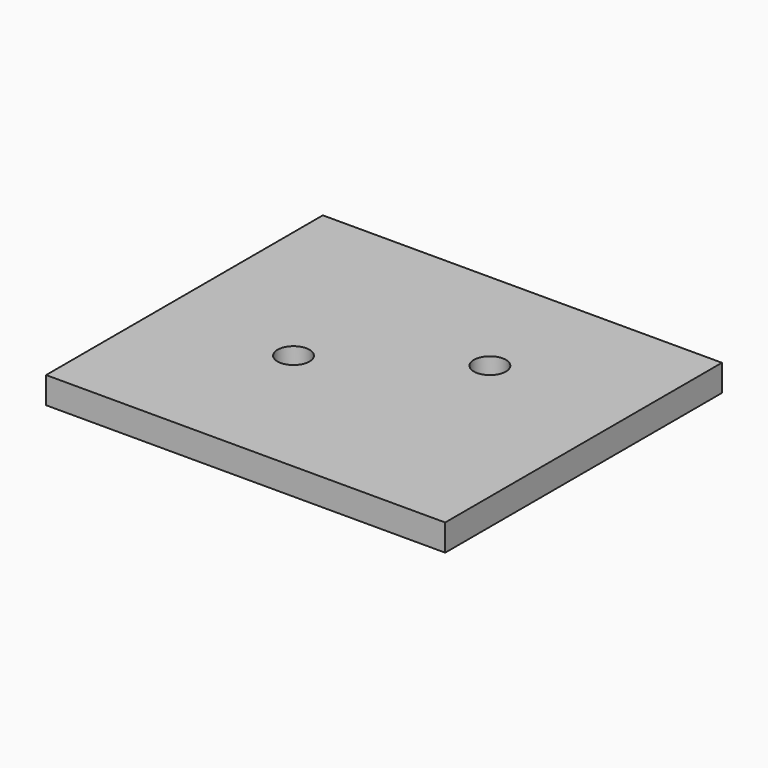
from build123d import *

# Parameters (mm, degrees)
SKETCH_W     = 150
SKETCH_H     = 130
PAD_DEPTH    = 10
SKETCH001_R  = 6
POCKET_DEPTH = 10.001


with BuildPart() as part:
    # Sketch → Pad (new body)
    with BuildSketch(Plane.XY):
        Rectangle(SKETCH_W, SKETCH_H)
    extrude(amount=PAD_DEPTH)

    # Sketch001 (on Face6 of Pad) → Pocket (cut, through all)
    with BuildSketch(Plane.XY.offset(10)):
        with Locations((23, 21)):
            Circle(SKETCH001_R)
        with Locations((-26, -10)):
            Circle(SKETCH001_R)
    extrude(amount=-POCKET_DEPTH, mode=Mode.SUBTRACT)


solid = part.part
